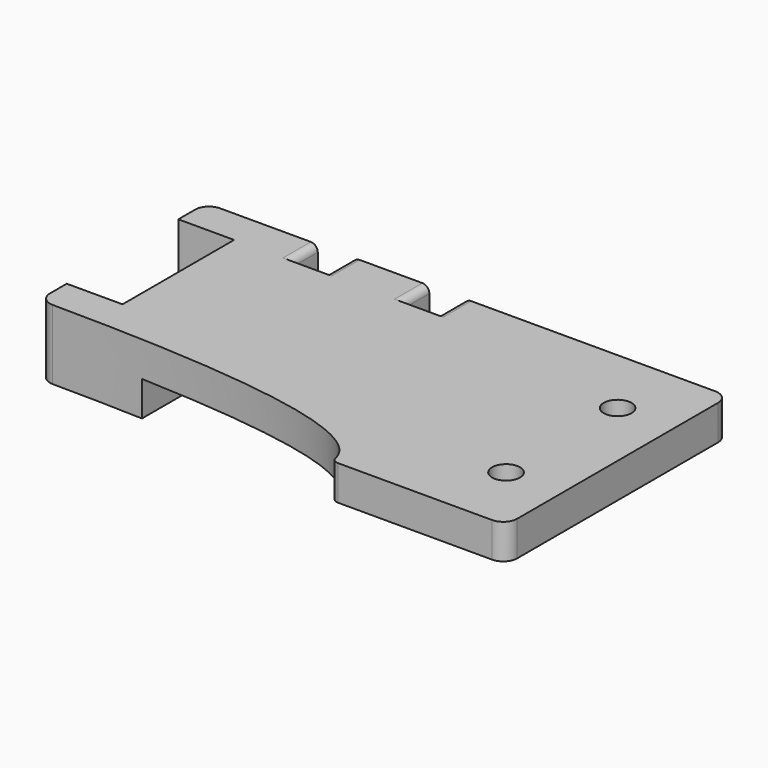
from build123d import *

# Parameters (mm, degrees)
PAD_DEPTH       = 10
SKETCH001_W     = 25
SKETCH001_H     = 50
POCKET_DEPTH    = 5
SKETCH002_R     = 2
POCKET001_DEPTH = 12
FILLET_R        = 2
FILLET001_R     = 1
POCKET002_DEPTH = 5
SKETCH004_W     = 40
SKETCH004_H     = 30
POCKET003_DEPTH = 5
FILLET002_R     = 1
FILLET003_R     = 1


with BuildPart() as part:
    # Sketch → Pad (new body)
    with BuildSketch(Plane.XY):
        with BuildLine():
            Line((-25, 0), (0, 0))
            Line((0, 0), (0, 40))
            Line((0, 40), (-75, 40))
            Line((-75, 40), (-75, 35))
            Line((-75, 35), (-67, 35))
            Line((-67, 35), (-67, 15))
            Line((-67, 15), (-75, 15))
            Line((-75, 15), (-75, 10))
            add(Edge.make_bspline(
                [(-25, 0), (-25, 10), (-75, 10)],
                knots=[0, 0, 0, 1, 1, 1], degree=2))
        make_face()
    extrude(amount=PAD_DEPTH)

    # Sketch001 → Pocket (cut)
    with BuildSketch(Plane.XY):
        with Locations((-7.5, 20)):
            Rectangle(SKETCH001_W, SKETCH001_H)
    extrude(amount=POCKET_DEPTH, mode=Mode.SUBTRACT)

    # Sketch002 → Pocket001 (cut)
    with BuildSketch(Plane.XY):
        with Locations((-8, 30)):
            Circle(SKETCH002_R)
        with Locations((-8, 10)):
            Circle(SKETCH002_R)
    extrude(amount=POCKET001_DEPTH, mode=Mode.SUBTRACT)

    # Fillet
    fillet_edges = [part.edges().sort_by_distance(p)[0] for p in [
        (0, 40, 7.5),
        (0, 0, 7.5),
        (-75, 10, 5),
        (-75, 40, 5),
    ]]
    fillet(fillet_edges, radius=FILLET_R)

    # Fillet001
    fillet001_edges = [part.edges().sort_by_distance(p)[0] for p in [
        (-25, 0, 5),
    ]]
    fillet(fillet001_edges, radius=FILLET001_R)

    # Sketch003 (on Face13 of Fillet001) → Pocket002 (cut)
    with BuildSketch(Plane(origin=(0, 40, 0), x_dir=(-1, 0, 0), z_dir=(0, 1, 0))):
        Polygon((62, -5), (62, 5), (59, 5), (59, 15), (54, 15), (54, 5), (51, 5), (51, -5), align=None)
        Polygon((46, -5), (46, 5), (43, 5), (43, 15), (38, 15), (38, 5), (35, 5), (35, -5), align=None)
    extrude(amount=-POCKET002_DEPTH, mode=Mode.SUBTRACT)

    # Sketch004 (on Face5 of Pocket002) → Pocket003 (cut)
    with BuildSketch(Plane(origin=(0, 0, 0), x_dir=(1, 0, 0), z_dir=(0, 0, -1))):
        with Locations((-40, -15)):
            Rectangle(SKETCH004_W, SKETCH004_H)
    extrude(amount=-POCKET003_DEPTH, mode=Mode.SUBTRACT)

    # Fillet002
    fillet002_edges = [part.edges().sort_by_distance(p)[0] for p in [
        (-62, 37.5, 5),
        (-59, 37.5, 5),
        (-46, 37.5, 5),
        (-43, 37.5, 5),
        (-43, 37.5, 10),
        (-59, 37.5, 10),
        (-54, 37.5, 5),
        (-38, 37.5, 5),
        (-35, 37.5, 5),
        (-51, 37.5, 5),
        (-54, 37.5, 10),
        (-38, 37.5, 10),
    ]]
    fillet(fillet002_edges, radius=FILLET002_R)

    # Fillet003
    fillet003_edges = [part.edges().sort_by_distance(p)[0] for p in [
        (-35, 37.5, 0),
        (-46, 37.5, 0),
        (-51, 37.5, 0),
        (-62, 37.5, 0),
    ]]
    fillet(fillet003_edges, radius=FILLET003_R)


solid = part.part
